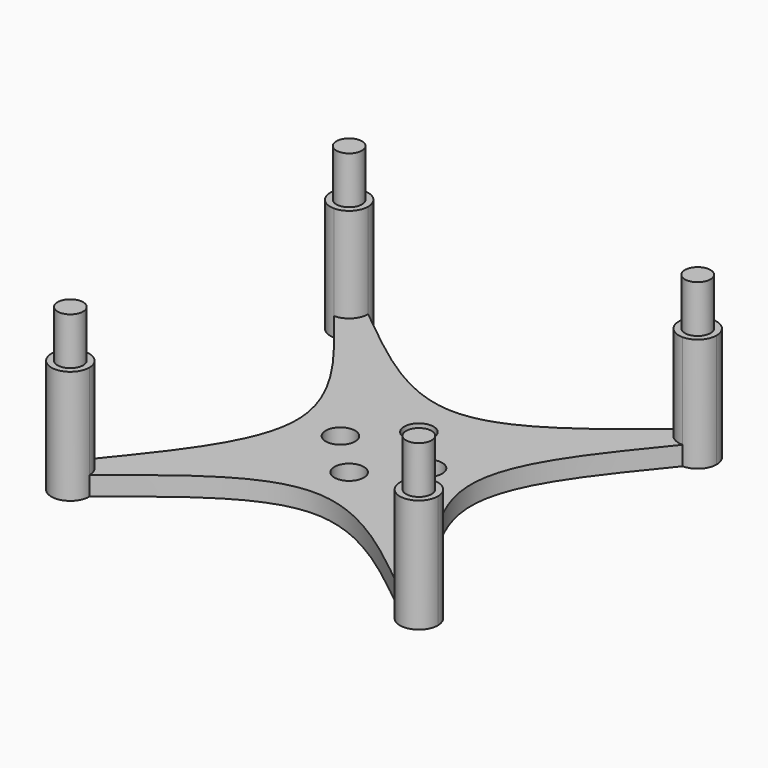
from build123d import *

# Parameters (mm, degrees)
F1_DEPTH  = 12
F0_R      = 1.55
F2_DEPTH  = 2
F3_R      = 1.35
F4_DEPTH  = 5
F5_R      = 1.35
F6_DEPTH  = 5
F7_R      = 1.35
F8_DEPTH  = 5
F9_R      = 1.35
F10_DEPTH = 5


with BuildPart() as f1:
    # F0 (on Top) → F1 (new body)
    with BuildSketch(Plane.XY):
        with BuildLine():
            ThreePointArc((18.4, 16.4), (19.814214, 16.985786), (20.4, 18.4))
            ThreePointArc((20.4, 18.4), (18.4, 20.4), (16.4, 18.4))
            ThreePointArc((16.4, 18.4), (16.985786, 16.985786), (18.4, 16.4))
        make_face()
        with BuildLine():
            ThreePointArc((-16.4, -18.4), (-16.985786, -16.985786), (-18.4, -16.4))
            ThreePointArc((-18.4, -16.4), (-19.814214, -19.814214), (-16.4, -18.4))
        make_face()
        with BuildLine():
            ThreePointArc((20.4, -18.4), (19.814214, -16.985786), (18.4, -16.4))
            ThreePointArc((18.4, -16.4), (16.985786, -16.985786), (16.4, -18.4))
            ThreePointArc((16.4, -18.4), (18.4, -20.4), (20.4, -18.4))
        make_face()
        with BuildLine():
            ThreePointArc((-18.4, 16.4), (-16.985786, 16.985786), (-16.4, 18.4))
            ThreePointArc((-16.4, 18.4), (-19.814214, 19.814214), (-18.4, 16.4))
        make_face()
    extrude(amount=F1_DEPTH)

    # F3 (on face) → F4 (join)
    with BuildSketch(Plane.XY.offset(12)):
        with Locations((18.4, 18.4)):
            Circle(F3_R)
    extrude(amount=F4_DEPTH)

    # F5 (on face) → F6 (join)
    with BuildSketch(Plane.XY.offset(12)):
        with Locations((18.4, -18.4)):
            Circle(F5_R)
    extrude(amount=F6_DEPTH)

    # F7 (on face) → F8 (join)
    with BuildSketch(Plane.XY.offset(12)):
        with Locations((-18.4, -18.4)):
            Circle(F7_R)
    extrude(amount=F8_DEPTH)

    # F9 (on face) → F10 (join)
    with BuildSketch(Plane.XY.offset(12)):
        with Locations((-18.4, 18.4)):
            Circle(F9_R)
    extrude(amount=F10_DEPTH)


with BuildPart() as f2:
    # F0 (on Top) → F2 (new body)
    with BuildSketch(Plane.XY):
        with BuildLine():
            ThreePointArc((18.4, 16.4), (16.985786, 16.985786), (16.4, 18.4))
            add(Edge.make_bspline(
                [(-16.4, 18.4), (-10.7, 13.8), (0, 4.6), (10.7, 13.8), (16.4, 18.4)],
                knots=[0, 0, 0, 0, 18.804255, 37.60851, 37.60851, 37.60851, 37.60851], degree=3))
            ThreePointArc((-16.4, 18.4), (-16.985786, 16.985786), (-18.4, 16.4))
            add(Edge.make_bspline(
                [(-18.4, 16.4), (-13.8, 10.7), (-4.6, 0), (-13.8, -10.7), (-18.4, -16.4)],
                knots=[0, 0, 0, 0, 18.804255, 37.60851, 37.60851, 37.60851, 37.60851], degree=3))
            ThreePointArc((-18.4, -16.4), (-16.985786, -16.985786), (-16.4, -18.4))
            add(Edge.make_bspline(
                [(-16.4, -18.4), (-10.7, -13.8), (0, -4.6), (10.7, -13.8), (16.4, -18.4)],
                knots=[0, 0, 0, 0, 18.804255, 37.60851, 37.60851, 37.60851, 37.60851], degree=3))
            ThreePointArc((16.4, -18.4), (16.985786, -16.985786), (18.4, -16.4))
            add(Edge.make_bspline(
                [(18.4, 16.4), (13.8, 10.7), (4.6, 0), (13.8, -10.7), (18.4, -16.4)],
                knots=[0, 0, 0, 0, 18.804255, 37.60851, 37.60851, 37.60851, 37.60851], degree=3))
        make_face()
        with Locations((0, -4.6)):
            Circle(F0_R, mode=Mode.SUBTRACT)
        with Locations((-4.6, 0)):
            Circle(F0_R, mode=Mode.SUBTRACT)
        with Locations((4.6, 0)):
            Circle(F0_R, mode=Mode.SUBTRACT)
        with Locations((0, 4.6)):
            Circle(F0_R, mode=Mode.SUBTRACT)
    extrude(amount=F2_DEPTH)


solid = Compound([f1.part, f2.part])
